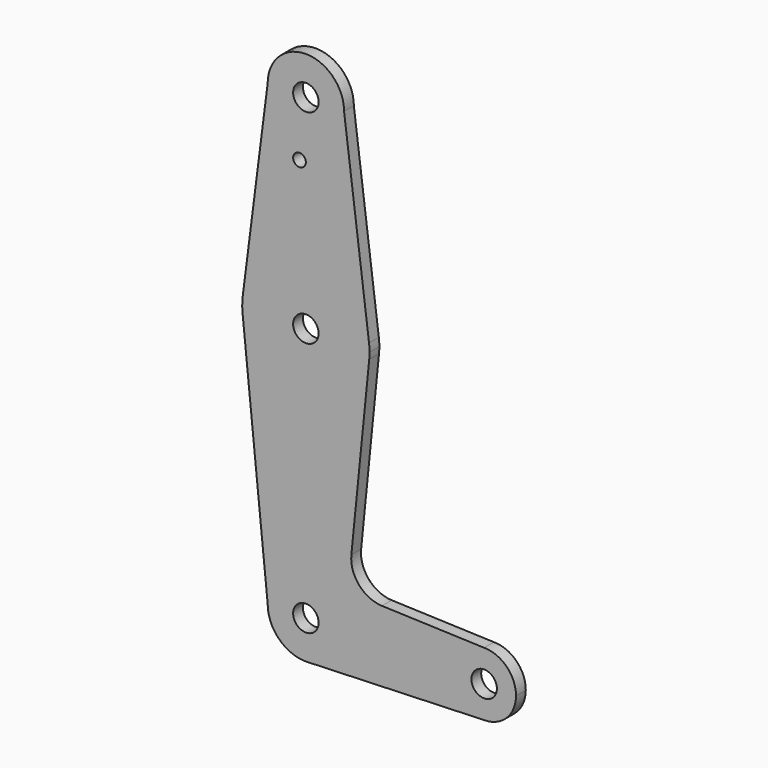
from build123d import *

# Parameters (mm, degrees)
F0_R     = 3.175
F0_R_2   = 1.5875
F1_DEPTH = 3.048


with BuildPart() as f1:
    # F0 (on Front) → F1 (new body)
    with BuildSketch(Plane.XZ):
        with BuildLine():
            ThreePointArc((-9.525, 114.3), (0, 104.775), (9.525, 114.3))
            ThreePointArc((9.525, 114.3), (0, 123.825), (-9.525, 114.3))
        make_face()
        with Locations((0, 114.3)):
            Circle(F0_R, mode=Mode.SUBTRACT)
        with BuildLine():
            Line((15.747457, 65.508289), (9.525, 114.3))
            ThreePointArc((9.525, 114.3), (0, 104.775), (-9.525, 114.3))
            Line((-9.525, 114.3), (-15.747457, 65.508289))
            ThreePointArc((-15.747457, 65.508289), (0, 79.375), (15.747457, 65.508289))
        make_face()
        with Locations((-1.5875, 100.0252)):
            Circle(F0_R_2, mode=Mode.SUBTRACT)
        with BuildLine():
            ThreePointArc((15.875, 63.5), (15.843082, 64.506168), (15.747457, 65.508289))
            ThreePointArc((15.747457, 65.508289), (0, 79.375), (-15.747457, 65.508289))
            ThreePointArc((-15.747457, 65.508289), (-15.873668, 63.705667), (-15.794203, 61.90038))
            ThreePointArc((-15.794203, 61.90038), (0.006091, 47.625001), (15.795426, 61.9125))
            ThreePointArc((15.795426, 61.9125), (15.855094, 62.705253), (15.875, 63.5))
        make_face()
        with Locations((0, 63.5)):
            Circle(F0_R, mode=Mode.SUBTRACT)
        with BuildLine():
            ThreePointArc((15.795426, 61.9125), (0.006091, 47.625001), (-15.794203, 61.90038))
            Line((-15.794203, 61.90038), (-9.525, 0))
            ThreePointArc((-9.525, 0), (0, 9.525), (9.525, 0))
            ThreePointArc((9.525, 0), (6.854788, -6.613434), (0.341271, -9.518884))
            Line((0.341271, -9.518884), (44.45, -7.9375))
            ThreePointArc((44.45, -7.9375), (36.5125, 0), (44.45, 7.9375))
            Line((44.45, 7.9375), (18.966474, 8.851134))
            ThreePointArc((18.966474, 8.851134), (13.260686, 11.569571), (11.340972, 17.59125))
            Line((11.340972, 17.59125), (15.795426, 61.9125))
        make_face()
        with BuildLine():
            ThreePointArc((9.525, 0), (0, 9.525), (-9.525, 0))
            ThreePointArc((-9.525, 0), (-6.613434, -6.854788), (0.341271, -9.518884))
            ThreePointArc((0.341271, -9.518884), (6.854788, -6.613434), (9.525, 0))
        make_face()
        Circle(F0_R, mode=Mode.SUBTRACT)
        with BuildLine():
            ThreePointArc((44.45, 7.9375), (36.5125, 0), (44.45, -7.9375))
            ThreePointArc((44.45, -7.9375), (50.06266, -5.61266), (52.3875, 0))
            ThreePointArc((52.3875, 0), (50.06266, 5.61266), (44.45, 7.9375))
        make_face()
        with Locations((44.45, 0)):
            Circle(F0_R, mode=Mode.SUBTRACT)
    extrude(amount=F1_DEPTH)


solid = f1.part
